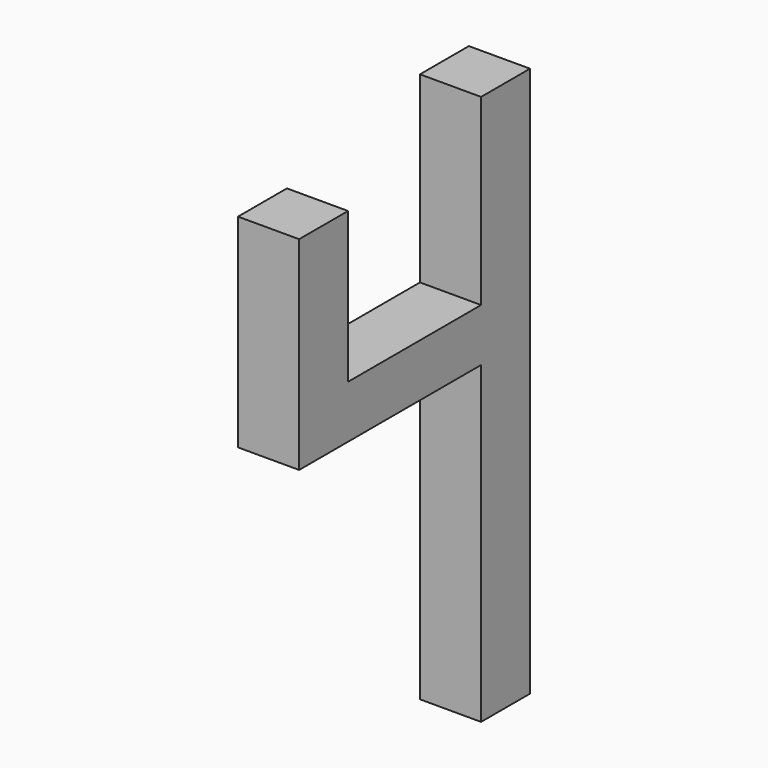
from build123d import *

# Parameters (mm, degrees)
F0_W     = 12.7
F0_H     = 88.9
F1_DEPTH = 12.7
F2_W     = 12.7
F2_H     = 10.96398
F3_DEPTH = 30.734
F4_W     = 12.7
F4_H     = 12.7
F5_DEPTH = 25.4
F6_W     = 12.7
F6_H     = 10.96398
F7_DEPTH = 16.51
F8_W     = 12.7
F8_H     = 12.7
F9_DEPTH = 31.242


with BuildPart() as f1:
    # F0 (on Front) → F1 (new body)
    with BuildSketch(Plane.XZ):
        with Locations((-31.999755, -44.45)):
            Rectangle(F0_W, F0_H)
    extrude(amount=F1_DEPTH)

    # F2 (on face) → F3 (join)
    with BuildSketch(Plane.XZ.offset(12.7)):
        with Locations((-31.999755, -18.141449)):
            Rectangle(F2_W, F2_H)
    extrude(amount=F3_DEPTH)

    # F4 (on face) → F5 (join)
    with BuildSketch(Plane.XY):
        with Locations((-31.999755, -6.35)):
            Rectangle(F4_W, F4_H)
    extrude(amount=F5_DEPTH)

    # F6 (on face) → F7 (join)
    with BuildSketch(Plane.XZ.offset(43.434)):
        with Locations((-31.999755, -18.141449)):
            Rectangle(F6_W, F6_H)
    extrude(amount=F7_DEPTH)

    # F8 (on face) → F9 (join)
    with BuildSketch(Plane.XY.offset(-12.659459)):
        with Locations((-31.999755, -53.594)):
            Rectangle(F8_W, F8_H)
    extrude(amount=F9_DEPTH)


solid = f1.part
